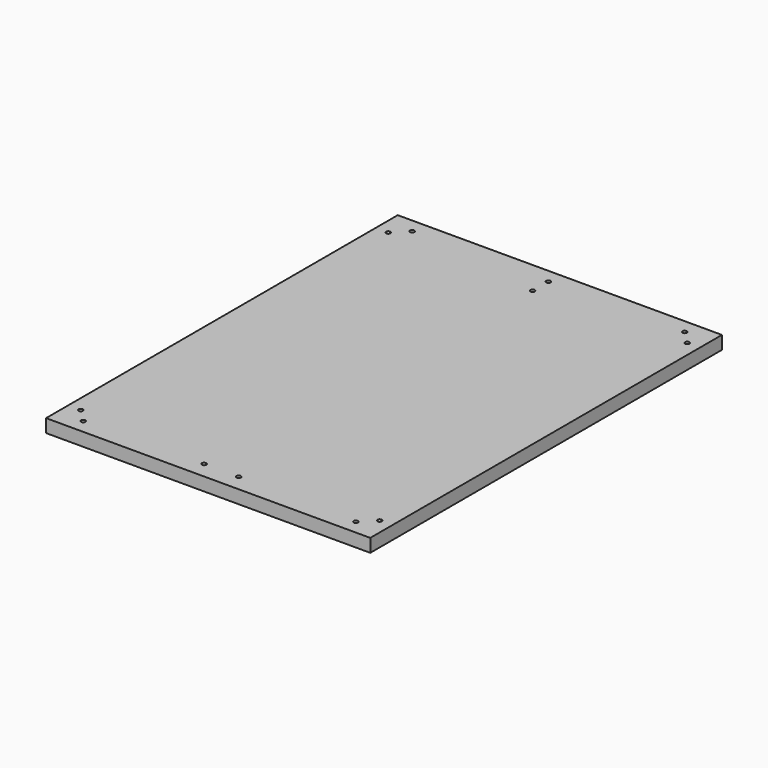
from build123d import *

# Parameters (mm, degrees)
F0_W           = 295
F0_H           = 400
F1_DEPTH       = 12
F3_D           = 4
F3_CBORE_D     = 8
F3_CBORE_DEPTH = 5


with BuildPart() as f1:
    # F0 (on Top) → F1 (new body)
    with BuildSketch(Plane.XY):
        Rectangle(F0_W, F0_H)
    extrude(amount=F1_DEPTH)

    # F3 (through all)
    with Locations(Plane(origin=(0, 0, 0), x_dir=(1, 0, 0), z_dir=(0, 0, -1))):
        with Locations((136, 175), (124, 187), (15.75, 185), (-15.75, 185), (-124, 187), (-136, 175), (-136, -175), (-124, -187), (0, -187), (0, -169), (124, -187), (136, -175)):
            CounterBoreHole(F3_D / 2, F3_CBORE_D / 2, F3_CBORE_DEPTH)


solid = f1.part
